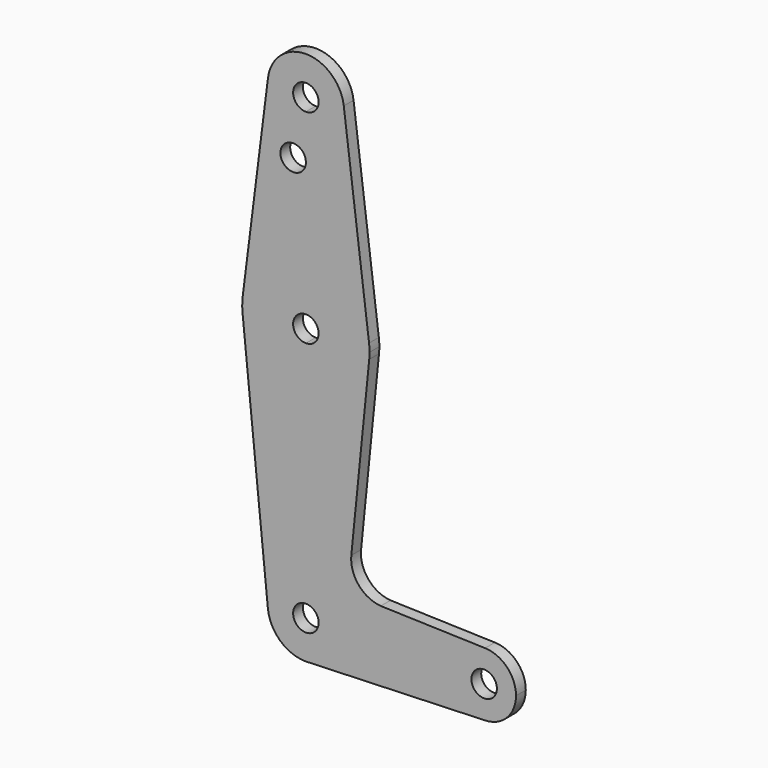
from build123d import *

# Parameters (mm, degrees)
F0_R     = 3.175
F1_DEPTH = 3.048


with BuildPart() as f1:
    # F0 (on Front) → F1 (new body)
    with BuildSketch(Plane.XZ):
        with BuildLine():
            ThreePointArc((44.6919149657, 7.9338126648), (38.9235315884, 5.6975479941), (36.5125, 0))
            ThreePointArc((36.5125, 0), (38.9235315884, -5.6975479941), (44.6919149657, -7.9338126648))
            ThreePointArc((44.6919149657, -7.9338126648), (50.1475479941, -5.5264684116), (52.3875, 0))
            ThreePointArc((52.3875, 0), (50.1475479941, 5.5264684116), (44.6919149657, 7.9338126648))
        make_face()
        with BuildLine():
            ThreePointArc((47.625, 0), (44.45, -3.175), (41.275, 0))
            ThreePointArc((41.275, 0), (44.45, 3.175), (47.625, 0))
        make_face(mode=Mode.SUBTRACT)
        with BuildLine():
            ThreePointArc((44.6919149657, -7.9338126648), (38.9235315884, -5.6975479941), (36.5125, 0))
            Line((36.5125, 0), (3.175, 0))
            ThreePointArc((3.175, 0), (-2.2450640303, -2.2450640303), (0, 3.175))
            Line((0, 3.175), (0, 47.625))
            ThreePointArc((0, 47.625), (-10.6492737428, 51.7267849017), (-15.7954255641, 61.9125))
            Line((-15.7954255641, 61.9125), (-9.4772553384, -0.9525))
            ThreePointArc((-9.4772553384, -0.9525), (-6.3895642457, -7.063929059), (0, -9.525))
            Line((0, -9.525), (0.677387477, -9.500882654))
            Line((0.677387477, -9.500882654), (44.6919149657, -7.9338126648))
        make_face()
        with BuildLine():
            Line((3.175, 0), (36.5125, 0))
            ThreePointArc((36.5125, 0), (38.9235315884, 5.6975479941), (44.6919149657, 7.9338126648))
            Line((44.6919149657, 7.9338126648), (18.6695381999, 8.7272776291))
            ThreePointArc((18.6695381999, 8.7272776291), (13.1545149812, 11.5381080493), (11.3269967972, 17.4521951337))
            Line((11.3269967972, 17.4521951337), (15.7954255641, 61.9125))
            ThreePointArc((15.7954255641, 61.9125), (10.6492737428, 51.7267849017), (0, 47.625))
            Line((0, 47.625), (0, 3.175))
            ThreePointArc((0, 3.175), (2.2450640303, 2.2450640303), (3.175, 0))
        make_face()
        with BuildLine():
            ThreePointArc((0, -9.525), (0.3389083358, -9.518968754), (0.677387477, -9.500882654))
            Line((0.677387477, -9.500882654), (0, -9.525))
        make_face()
        with BuildLine():
            ThreePointArc((-15.7954255641, 61.9125), (-10.6492737428, 51.7267849017), (0, 47.625))
            Line((0, 47.625), (0, 60.325))
            ThreePointArc((0, 60.325), (-3.175, 63.5), (0, 66.675))
            Line((0, 66.675), (0, 79.375))
            ThreePointArc((0, 79.375), (-10.5003255158, 75.40625), (-15.7504882737, 65.484375))
            ThreePointArc((-15.7504882737, 65.484375), (-15.8737438155, 63.6997054867), (-15.7954255641, 61.9125))
        make_face()
        with BuildLine():
            Line((0, 60.325), (0, 47.625))
            ThreePointArc((0, 47.625), (10.6492737428, 51.7267849017), (15.7954255641, 61.9125))
            ThreePointArc((15.7954255641, 61.9125), (15.8550939106, 62.7052534459), (15.875, 63.5))
            ThreePointArc((15.875, 63.5), (15.8438414904, 64.4941387366), (15.7504882737, 65.484375))
            ThreePointArc((15.7504882737, 65.484375), (10.5003255158, 75.40625), (0, 79.375))
            Line((0, 79.375), (0, 66.675))
            ThreePointArc((0, 66.675), (2.2450640303, 65.7450640303), (3.175, 63.5))
            ThreePointArc((3.175, 63.5), (2.2450640303, 61.2549359697), (0, 60.325))
        make_face()
        with BuildLine():
            Line((-9.4502929642, 115.490625), (-15.7504882737, 65.484375))
            ThreePointArc((-15.7504882737, 65.484375), (-10.5003255158, 75.40625), (0, 79.375))
            Line((0, 79.375), (0, 100.0252))
            Line((0, 100.0252), (0, 104.775))
            ThreePointArc((0, 104.775), (-7.14375, 107.9998046905), (-9.4502929642, 115.490625))
        make_face()
        with Locations((-3.175, 100.0252)):
            Circle(F0_R, mode=Mode.SUBTRACT)
        with BuildLine():
            Line((0, 100.0252), (0, 79.375))
            ThreePointArc((0, 79.375), (10.5003255158, 75.40625), (15.7504882737, 65.484375))
            Line((15.7504882737, 65.484375), (9.4502929642, 115.490625))
            ThreePointArc((9.4502929642, 115.490625), (9.5063048942, 114.896483242), (9.525, 114.3))
            ThreePointArc((9.525, 114.3), (6.7351920908, 107.5648079092), (0, 104.775))
            Line((0, 104.775), (0, 100.0252))
        make_face()
        with BuildLine():
            ThreePointArc((9.4502929642, 115.490625), (0, 123.825), (-9.4502929642, 115.490625))
            ThreePointArc((-9.4502929642, 115.490625), (-7.14375, 107.9998046905), (0, 104.775))
            ThreePointArc((0, 104.775), (6.7351920908, 107.5648079092), (9.525, 114.3))
            ThreePointArc((9.525, 114.3), (9.5063048942, 114.896483242), (9.4502929642, 115.490625))
        make_face()
        with BuildLine():
            ThreePointArc((3.175, 114.3), (2.2450640303, 112.0549359697), (0, 111.125))
            ThreePointArc((0, 111.125), (-2.2450640303, 116.5450640303), (3.175, 114.3))
        make_face(mode=Mode.SUBTRACT)
    extrude(amount=F1_DEPTH)


solid = f1.part
